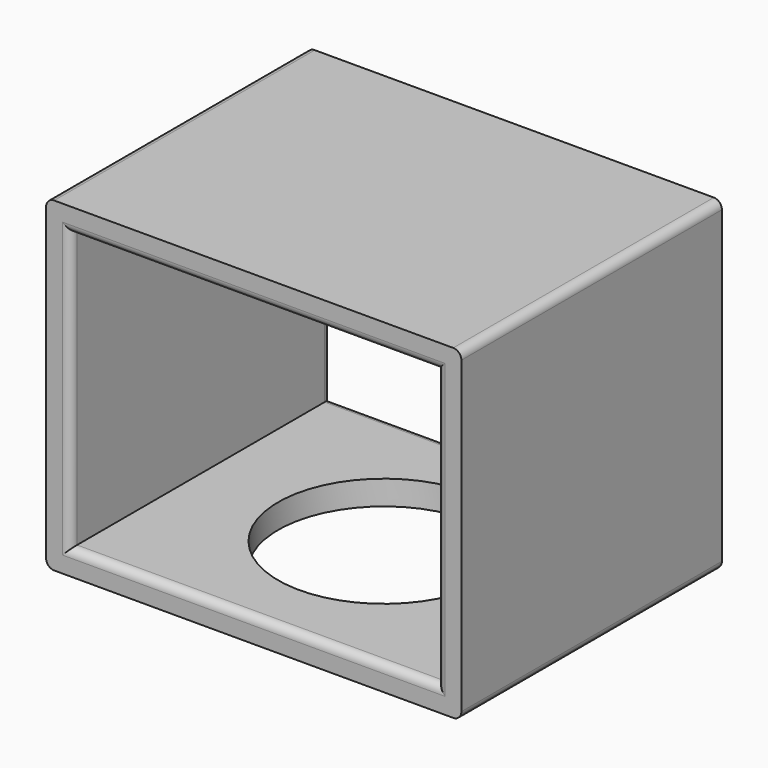
from build123d import *

# Parameters (mm, degrees)
SKETCH_W     = 10.2
SKETCH_H     = 8
SKETCH_W_2   = 9
SKETCH_H_2   = 6.8
PAD_DEPTH    = 8
SKETCH001_R  = 2.6
POCKET_DEPTH = 0.6
FILLET_R     = 0.2
FILLET001_R  = 0.2


with BuildPart() as part:
    # Sketch → Pad (new body)
    with BuildSketch(Plane.XZ):
        with Locations((5.1, 4)):
            Rectangle(SKETCH_W, SKETCH_H)
        with Locations((5.1, 4)):
            Rectangle(SKETCH_W_2, SKETCH_H_2, mode=Mode.SUBTRACT)
    extrude(amount=PAD_DEPTH)

    # Sketch001 (on Face1 of Pad) → Pocket (cut)
    with BuildSketch(Plane(origin=(0, 0, 0), x_dir=(1, 0, 0), z_dir=(0, 0, -1))):
        with Locations((5.1, 4)):
            Circle(SKETCH001_R)
    extrude(amount=-POCKET_DEPTH, mode=Mode.SUBTRACT)

    # Fillet
    fillet_edges = [part.edges().sort_by_distance(p)[0] for p in [
        (5.1, -8, 7.4),
        (0.6, -8, 4),
        (9.6, -8, 4),
        (5.1, -8, 0.6),
        (5.1, 0, 7.4),
        (9.6, 0, 4),
        (5.1, 0, 0.6),
        (0.6, 0, 4),
    ]]
    fillet(fillet_edges, radius=FILLET_R)

    # Fillet001
    fillet001_edges = [part.edges().sort_by_distance(p)[0] for p in [
        (0, -4, 8),
        (10.2, -4, 8),
        (0, -4, 0),
        (10.2, -4, 0),
    ]]
    fillet(fillet001_edges, radius=FILLET001_R)


solid = part.part
